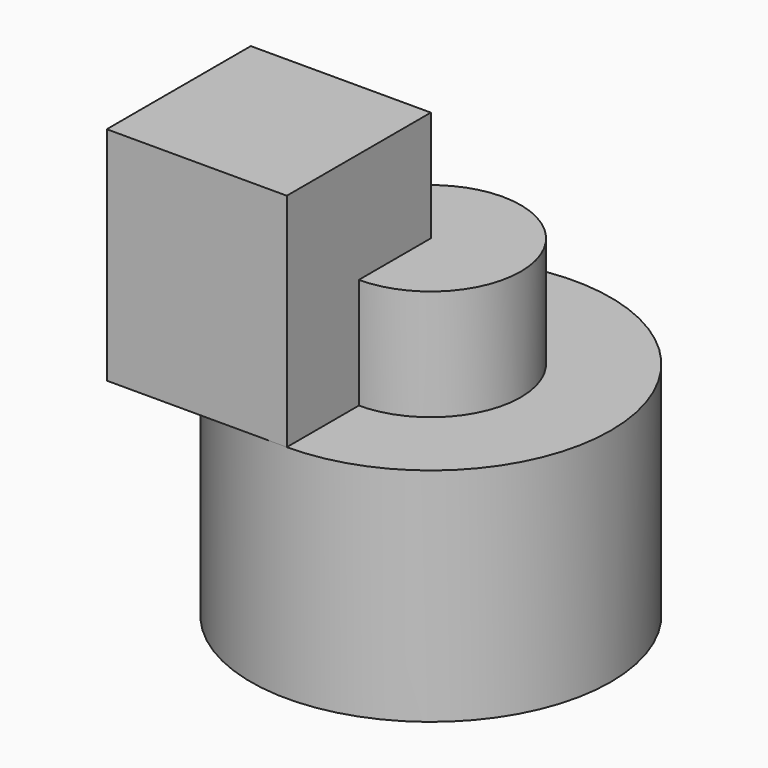
from build123d import *

# Parameters (mm, degrees)
F0_R     = 20.3323309438
F1_DEPTH = 25
F2_W     = 20.3323309438
F2_H     = 20.3323309438
F3_DEPTH = 25
F4_SCALE = 2


with BuildPart() as f1:
    # F0 (on Top) → F1 (new body)
    with BuildSketch(Plane.XY):
        Circle(F0_R)
    extrude(amount=F1_DEPTH)

    # F2 (on face) → F3 (join)
    with BuildSketch(Plane.XY.offset(25)):
        with Locations((-10.1661654719, -10.1661654719)):
            Rectangle(F2_W, F2_H)
    extrude(amount=F3_DEPTH)


with BuildPart() as f4_1:
    # F4: copy of F1
    add(f1.part.scale(F4_SCALE).moved(Location((0, 0, -50))))


solid = Compound([f1.part, f4_1.part])
